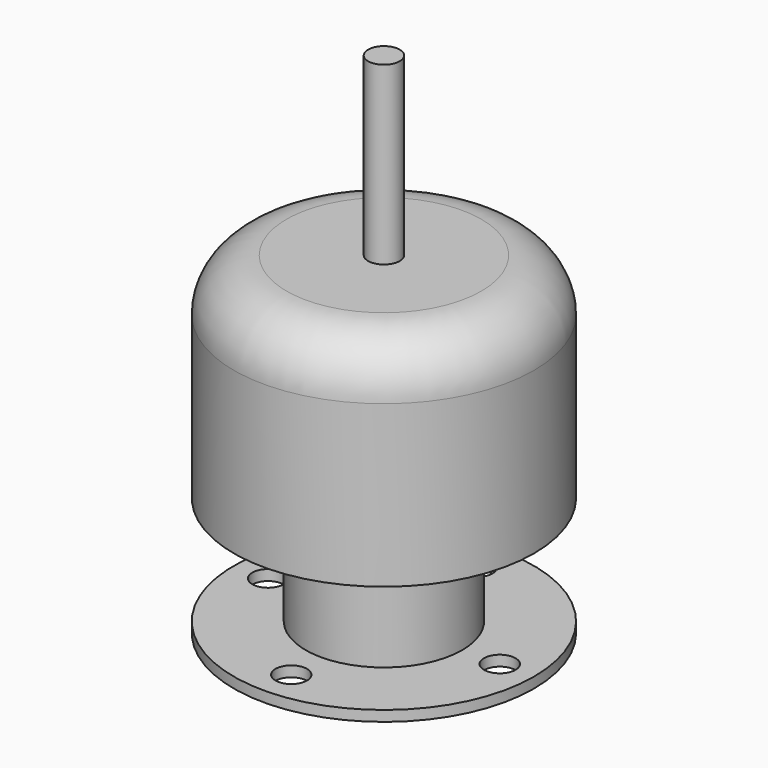
from build123d import *

# Parameters (mm, degrees)
F0_R      = 14.25
F1_DEPTH  = 1
F2_R      = 7.430853
F3_DEPTH  = 10.3
F4_R      = 14.25
F5_DEPTH  = 20.3
F6_R      = 5
F7_R      = 1.5
F8_DEPTH  = 16.7
F9_R      = 1.5
F10_DEPTH = 1


with BuildPart() as f1:
    # F0 (on Top) → F1 (new body)
    with BuildSketch(Plane.XY):
        Circle(F0_R)
    extrude(amount=F1_DEPTH)

    # F2 (on face) → F3 (join)
    with BuildSketch(Plane.XY.offset(1)):
        Circle(F2_R)
    extrude(amount=F3_DEPTH)

    # F4 (on face) → F5 (join)
    with BuildSketch(Plane.XY.offset(11.3)):
        Circle(F4_R)
    extrude(amount=F5_DEPTH)

    # F6
    f6_edges = [f1.edges().sort_by_distance(p)[0] for p in [
        (-14.25, 0, 31.6),
    ]]
    fillet(f6_edges, radius=F6_R)

    # F7 (on face) → F8 (join)
    with BuildSketch(Plane.XY.offset(31.6)):
        Circle(F7_R)
    extrude(amount=F8_DEPTH)

    # F9 (on face) → F10 (cut, through all)
    with BuildSketch(Plane(origin=(0, 0, 0), x_dir=(1, 0, 0), z_dir=(0, 0, -1))):
        with Locations((0, 11)):
            Circle(F9_R)
        with Locations((11, 0)):
            Circle(F9_R)
        with Locations((-11, 0)):
            Circle(F9_R)
        with Locations((0, -11)):
            Circle(F9_R)
    extrude(amount=-F10_DEPTH, mode=Mode.SUBTRACT)


solid = f1.part
